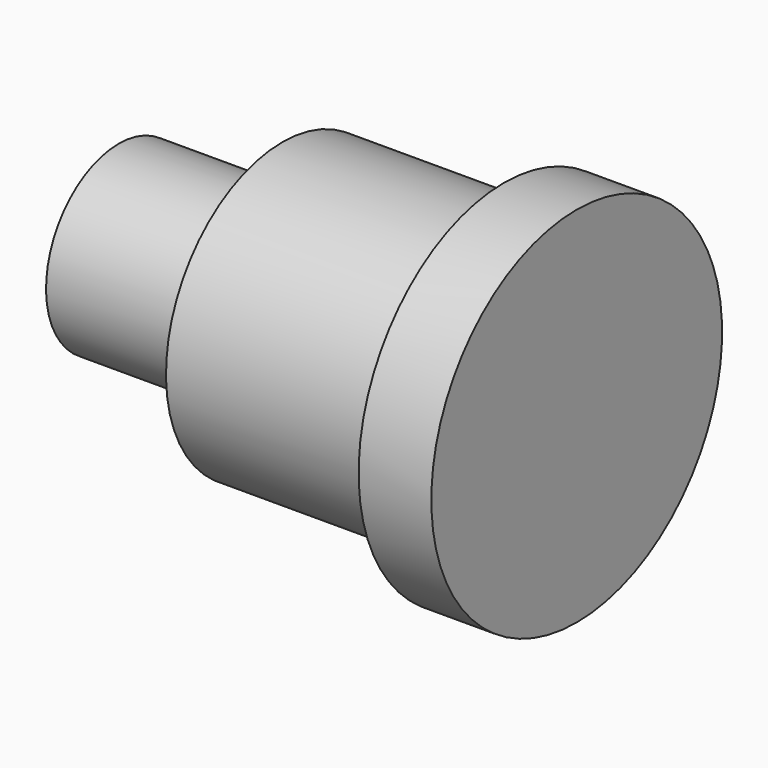
from build123d import *

# Parameters (mm, degrees)
F3_D     = 2
F3_DEPTH = 3.5
F3_TIP   = 0.600860619


with BuildPart() as f1:
    # F0 (on Front) → F1 (revolve)
    with BuildSketch(Plane.XZ):
        Polygon((-12.6, 0), (0, 0), (0, 5), (-2, 5), (-2, 4), (-8.1, 4), (-8.1, 2.5), (-12.6, 2.5), align=None)
    revolve(axis=Axis((-6.3, 0, 0), (1, 0, 0)))

    # F3
    with Locations(Plane(origin=(-12.6, 0, 0), x_dir=(0, -1, 0), z_dir=(-1, 0, 0))):
        with Locations((0, 0)):
            Hole(F3_D / 2, depth=F3_DEPTH)
            with Locations((0, 0, -(F3_DEPTH + F3_TIP / 2))):  # 118° drill point
                Cone(0, F3_D / 2, F3_TIP, mode=Mode.SUBTRACT)


solid = f1.part
